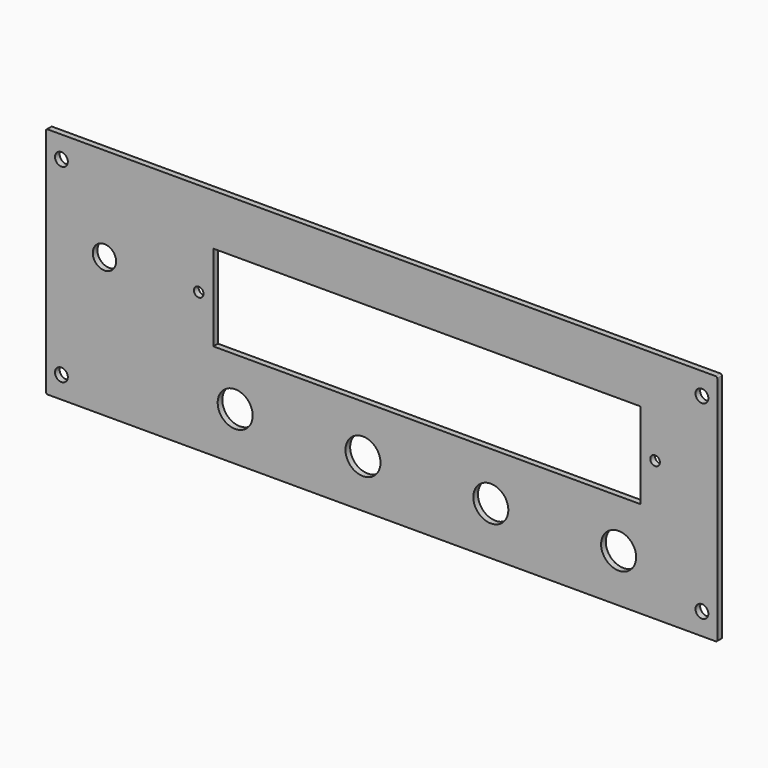
from build123d import *

# Parameters (mm, degrees)
F0_W     = 146.4
F0_H     = 29.5
F1_DEPTH = 2
F2_D     = 4.4
F3_D     = 3.3
F4_D     = 8
F5_D     = 12


with BuildPart() as f1:
    # F0 (on Front) → F1 (new body)
    with BuildSketch(Plane.XZ):
        with BuildLine():
            Line((114.5, 12.8908843005), (-114.5, 12.8908843005))
            ThreePointArc((-114.5, 12.8908843005), (-114.8535533906, 12.7444376911), (-115, 12.3908843005))
            Line((-115, 12.3908843005), (-115, -66.6091156995))
            ThreePointArc((-115, -66.6091156995), (-114.8535533906, -66.9626690901), (-114.5, -67.1091156995))
            Line((-114.5, -67.1091156995), (114.5, -67.1091156995))
            ThreePointArc((114.5, -67.1091156995), (114.8535533906, -66.9626690901), (115, -66.6091156995))
            Line((115, -66.6091156995), (115, 12.3908843005))
            ThreePointArc((115, 12.3908843005), (114.8535533906, 12.7444376911), (114.5, 12.8908843005))
        make_face()
        with Locations((15.5, -19.3591156995)):
            Rectangle(F0_W, F0_H, mode=Mode.SUBTRACT)
    extrude(amount=-F1_DEPTH)

    # F2 (through all)
    with Locations(Plane.XZ):
        with Locations((-109.75, 5.3908843005), (109.75, 5.3908843005), (109.75, -59.6091156995), (-109.75, -59.6091156995)):
            Hole(F2_D / 2)

    # F3 (through all)
    with Locations(Plane.XZ):
        with Locations((-62.7, -19.3591156995), (93.7, -19.3591156995)):
            Hole(F3_D / 2)

    # F4 (through all)
    with Locations(Plane.XZ):
        with Locations((-95, -19.3591156995)):
            Hole(F4_D / 2)

    # F5 (through all)
    with Locations(Plane.XZ):
        with Locations((-50.2, -50.6091156995), (-6.4, -50.6091156995), (37.4, -50.6091156995), (81.2, -50.6091156995)):
            Hole(F5_D / 2)


solid = f1.part
